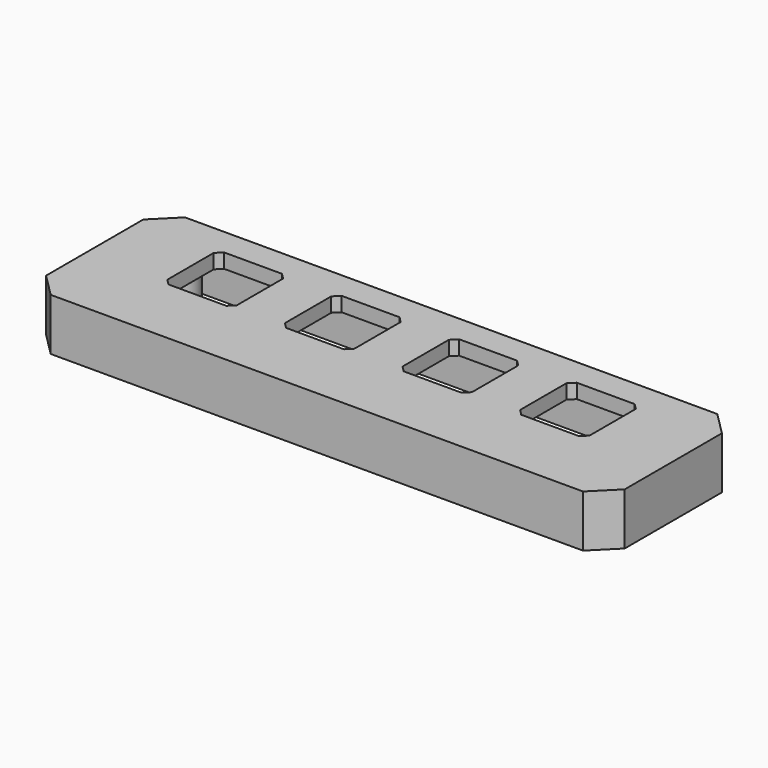
from build123d import *

# Parameters (mm, degrees)
CYLINDER041_R     = 0.85
CYLINDER041_DEPTH = 8
CYLINDER040_R     = 0.85
CYLINDER040_DEPTH = 8
BOX020_W          = 10
BOX020_H          = 10
BOX020_DEPTH      = 10
CYLINDER032_R     = 3
CYLINDER032_DEPTH = 8
BOX019_W          = 10
BOX019_H          = 10
BOX019_DEPTH      = 10
CYLINDER033_R     = 3
CYLINDER033_DEPTH = 8
BOX011_W          = 12
BOX011_H          = 12
BOX011_DEPTH      = 10
BOX010_W          = 12
BOX010_H          = 12
BOX010_DEPTH      = 10
BOX009_W          = 12
BOX009_H          = 12
BOX009_DEPTH      = 10
BOX012_W          = 12
BOX012_H          = 12
BOX012_DEPTH      = 10
CHAMFER007_SIZE   = 1
CYLINDER005_R     = 0.85
CYLINDER005_DEPTH = 7.5
CYLINDER004_R     = 0.85
CYLINDER004_DEPTH = 7.5
CYLINDER007_R     = 0.85
CYLINDER007_DEPTH = 7.5
CYLINDER006_R     = 0.85
CYLINDER006_DEPTH = 7.5
BOX008_W          = 95
BOX008_H          = 24
BOX008_DEPTH      = 6.5
BOX007_W          = 100
BOX007_H          = 29
BOX007_DEPTH      = 9
CYLINDER030_R     = 3
CYLINDER030_DEPTH = 8
CYLINDER029_R     = 3
CYLINDER029_DEPTH = 8
CYLINDER028_R     = 3
CYLINDER028_DEPTH = 8
CYLINDER031_R     = 3
CYLINDER031_DEPTH = 8
CHAMFER010_SIZE   = 2
CHAMFER011_SIZE   = 4


with BuildPart() as cylinder041:
    # Cylinder041 → Cylinder041 (new body)
    with BuildSketch(Plane(origin=(-47.5, 0, 20), x_dir=(1, 0, 0), z_dir=(0, 0, 1))):
        Circle(CYLINDER041_R)
    extrude(amount=CYLINDER041_DEPTH)


with BuildPart() as fusion024:
    # Cylinder040 → Cylinder040 (new body)
    with BuildSketch(Plane(origin=(47.5, 0, 20), x_dir=(1, 0, 0), z_dir=(0, 0, 1))):
        Circle(CYLINDER040_R)
    extrude(amount=CYLINDER040_DEPTH)

    # Fusion024: union Cylinder041
    add(cylinder041.part)


with BuildPart() as cube019:
    # Box020 → Box020 (new body)
    with BuildSketch(Plane(origin=(-60, -3, 20), x_dir=(1, 0, 0), z_dir=(0, 0, 1))):
        with Locations((5, 5)):
            Rectangle(BOX020_W, BOX020_H)
    extrude(amount=BOX020_DEPTH)


with BuildPart() as cut020:
    # Cylinder032 → Cylinder032 (new body)
    with BuildSketch(Plane(origin=(-47.5, 0, 20), x_dir=(1, 0, 0), z_dir=(0, 0, 1))):
        Circle(CYLINDER032_R)
    extrude(amount=CYLINDER032_DEPTH)

    # Cut020: cut Cube019
    add(cube019.part, mode=Mode.SUBTRACT)


with BuildPart() as cube018:
    # Box019 → Box019 (new body)
    with BuildSketch(Plane(origin=(50, -3, 20), x_dir=(1, 0, 0), z_dir=(0, 0, 1))):
        with Locations((5, 5)):
            Rectangle(BOX019_W, BOX019_H)
    extrude(amount=BOX019_DEPTH)


with BuildPart() as fusion022:
    # Cylinder033 → Cylinder033 (new body)
    with BuildSketch(Plane(origin=(47.5, 0, 20), x_dir=(1, 0, 0), z_dir=(0, 0, 1))):
        Circle(CYLINDER033_R)
    extrude(amount=CYLINDER033_DEPTH)

    # Cut021: cut Cube018
    add(cube018.part, mode=Mode.SUBTRACT)

    # Fusion022: union Cut020
    add(cut020.part)


with BuildPart() as cube010:
    # Box011 → Box011 (new body)
    with BuildSketch(Plane(origin=(24.48, -6, 0), x_dir=(1, 0, 0), z_dir=(0, 0, 1))):
        with Locations((6, 6)):
            Rectangle(BOX011_W, BOX011_H)
    extrude(amount=BOX011_DEPTH)


with BuildPart() as cube009:
    # Box010 → Box010 (new body)
    with BuildSketch(Plane(origin=(4.16, -6, 0), x_dir=(1, 0, 0), z_dir=(0, 0, 1))):
        with Locations((6, 6)):
            Rectangle(BOX010_W, BOX010_H)
    extrude(amount=BOX010_DEPTH)


with BuildPart() as cube008:
    # Box009 → Box009 (new body)
    with BuildSketch(Plane(origin=(-16.16, -6, 0), x_dir=(1, 0, 0), z_dir=(0, 0, 1))):
        with Locations((6, 6)):
            Rectangle(BOX009_W, BOX009_H)
    extrude(amount=BOX009_DEPTH)


with BuildPart() as chamfer007:
    # Box012 → Box012 (new body)
    with BuildSketch(Plane(origin=(-36.48, -6, 0), x_dir=(1, 0, 0), z_dir=(0, 0, 1))):
        with Locations((6, 6)):
            Rectangle(BOX012_W, BOX012_H)
    extrude(amount=BOX012_DEPTH)

    # Fusion016: union Cube010, Cube009, Cube008
    add(cube010.part)
    add(cube009.part)
    add(cube008.part)


with BuildPart() as chamfer007_1:
    # Fusion016 placement: moved
    add(chamfer007.part.moved(Location((0, 0, 25))))

    # Chamfer007
    chamfer007_edges = [chamfer007_1.edges().sort_by_distance(p)[0] for p in [
        (-36.48, -6, 30),
        (-36.48, 6, 30),
        (-24.48, -6, 30),
        (-24.48, 6, 30),
        (24.48, -6, 30),
        (24.48, 6, 30),
        (36.48, -6, 30),
        (36.48, 6, 30),
        (4.16, -6, 30),
        (4.16, 6, 30),
        (16.16, -6, 30),
        (16.16, 6, 30),
        (-16.16, -6, 30),
        (-16.16, 6, 30),
        (-4.16, -6, 30),
        (-4.16, 6, 30),
    ]]
    chamfer(chamfer007_edges, length=CHAMFER007_SIZE)


with BuildPart() as chamfer007_2:
    # Chamfer007 placement: moved
    add(chamfer007_1.part.moved(Location((0, 3.8, 0))))


with BuildPart() as cylinder005:
    # Cylinder005 → Cylinder005 (new body)
    with BuildSketch(Plane(origin=(-41.91, -8.26, 0), x_dir=(1, 0, 0), z_dir=(0, 0, 1))):
        Circle(CYLINDER005_R)
    extrude(amount=CYLINDER005_DEPTH)


with BuildPart() as cylinder004:
    # Cylinder004 → Cylinder004 (new body)
    with BuildSketch(Plane(origin=(-41.91, 8.255, 0), x_dir=(1, 0, 0), z_dir=(0, 0, 1))):
        Circle(CYLINDER004_R)
    extrude(amount=CYLINDER004_DEPTH)


with BuildPart() as cylinder007:
    # Cylinder007 → Cylinder007 (new body)
    with BuildSketch(Plane(origin=(41.91, -8.26, 0), x_dir=(1, 0, 0), z_dir=(0, 0, 1))):
        Circle(CYLINDER007_R)
    extrude(amount=CYLINDER007_DEPTH)


with BuildPart() as fusion015:
    # Cylinder006 → Cylinder006 (new body)
    with BuildSketch(Plane(origin=(41.91, 8.26, 0), x_dir=(1, 0, 0), z_dir=(0, 0, 1))):
        Circle(CYLINDER006_R)
    extrude(amount=CYLINDER006_DEPTH)

    # Fusion015: union Cylinder005, Cylinder004, Cylinder007
    add(cylinder005.part)
    add(cylinder004.part)
    add(cylinder007.part)


with BuildPart() as fusion015_1:
    # Fusion015 placement: moved
    add(fusion015.part.moved(Location((0, 0, 20))))


with BuildPart() as cube007:
    # Box008 → Box008 (new body)
    with BuildSketch(Plane(origin=(-47.5, -12, 20), x_dir=(1, 0, 0), z_dir=(0, 0, 1))):
        with Locations((47.5, 12)):
            Rectangle(BOX008_W, BOX008_H)
    extrude(amount=BOX008_DEPTH)


with BuildPart() as cut010:
    # Box007 → Box007 (new body)
    with BuildSketch(Plane(origin=(-50, -14.5, 20), x_dir=(1, 0, 0), z_dir=(0, 0, 1))):
        with Locations((50, 14.5)):
            Rectangle(BOX007_W, BOX007_H)
    extrude(amount=BOX007_DEPTH)

    # Cut010: cut Cube007
    add(cube007.part, mode=Mode.SUBTRACT)


with BuildPart() as cylinder030:
    # Cylinder030 → Cylinder030 (new body)
    with BuildSketch(Plane(origin=(41.91, 8.26, 0), x_dir=(1, 0, 0), z_dir=(0, 0, 1))):
        Circle(CYLINDER030_R)
    extrude(amount=CYLINDER030_DEPTH)


with BuildPart() as cylinder029:
    # Cylinder029 → Cylinder029 (new body)
    with BuildSketch(Plane(origin=(-41.91, 8.255, 0), x_dir=(1, 0, 0), z_dir=(0, 0, 1))):
        Circle(CYLINDER029_R)
    extrude(amount=CYLINDER029_DEPTH)


with BuildPart() as cylinder028:
    # Cylinder028 → Cylinder028 (new body)
    with BuildSketch(Plane(origin=(41.91, -8.26, 0), x_dir=(1, 0, 0), z_dir=(0, 0, 1))):
        Circle(CYLINDER028_R)
    extrude(amount=CYLINDER028_DEPTH)


with BuildPart() as chamfer011:
    # Cylinder031 → Cylinder031 (new body)
    with BuildSketch(Plane(origin=(-41.91, -8.26, 0), x_dir=(1, 0, 0), z_dir=(0, 0, 1))):
        Circle(CYLINDER031_R)
    extrude(amount=CYLINDER031_DEPTH)

    # Fusion013: union Cylinder030, Cylinder029, Cylinder028
    add(cylinder030.part)
    add(cylinder029.part)
    add(cylinder028.part)


with BuildPart() as chamfer011_1:
    # Fusion013 placement: moved
    add(chamfer011.part.moved(Location((0, 0, 20))))

    # Fusion018: union Cut010
    add(cut010.part)

    # Cut011: cut Fusion015
    add(fusion015_1.part, mode=Mode.SUBTRACT)

    # Cut019: cut Chamfer007
    add(chamfer007_2.part, mode=Mode.SUBTRACT)

    # Fusion023: union Fusion022
    add(fusion022.part)

    # Cut022: cut Fusion024
    add(fusion024.part, mode=Mode.SUBTRACT)

    # Chamfer010
    chamfer010_edges = [chamfer011_1.edges().sort_by_distance(p)[0] for p in [
        (-47.5, -12, 23.25),
        (-47.5, 12, 23.25),
        (47.5, 12, 23.25),
        (47.5, -12, 23.25),
    ]]
    chamfer(chamfer010_edges, length=CHAMFER010_SIZE)

    # Chamfer011
    chamfer011_edges = [chamfer011_1.edges().sort_by_distance(p)[0] for p in [
        (-50, 14.5, 24.5),
        (-50, -14.5, 24.5),
        (50, -14.5, 24.5),
        (50, 14.5, 24.5),
    ]]
    chamfer(chamfer011_edges, length=CHAMFER011_SIZE)


solid = chamfer011_1.part
